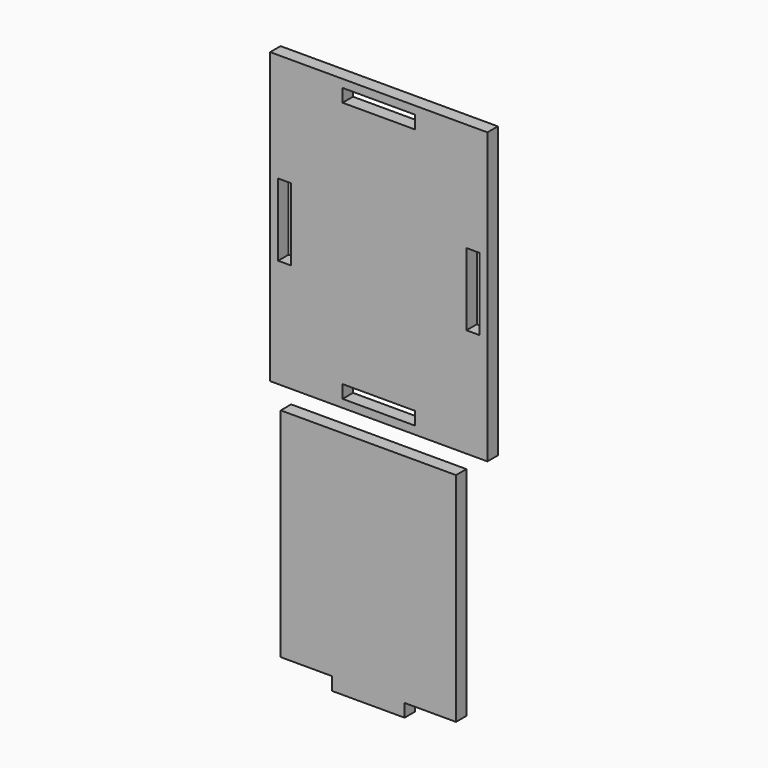
from build123d import *

# Parameters (mm, degrees)
F0_W     = 300
F0_H     = 400
F1_DEPTH = 18
F2_W     = 100
F2_H     = 9
F2_W_2   = 9
F2_H_2   = 100
F3_DEPTH = 25
F5_DEPTH = 18


with BuildPart() as f1:
    # F0 (on Front) → F1 (new body)
    with BuildSketch(Plane.XZ):
        Rectangle(F0_W, F0_H)
    extrude(amount=F1_DEPTH)

    # F2 (on face) → F3 (cut)
    with BuildSketch(Plane.XZ.offset(18)):
        with Locations((0, -184.5)):
            Rectangle(F2_W, F2_H)
        with Locations((0, -175.5)):
            Rectangle(F2_W, F2_H)
        with Locations((0, 175.5)):
            Rectangle(F2_W, F2_H)
        with Locations((0, 184.5)):
            Rectangle(F2_W, F2_H)
        with Locations((125.5, 0)):
            Rectangle(F2_W_2, F2_H_2)
        with Locations((134.5, 0)):
            Rectangle(F2_W_2, F2_H_2)
        with Locations((-134.5, 0)):
            Rectangle(F2_W_2, F2_H_2)
        with Locations((-125.5, 0)):
            Rectangle(F2_W_2, F2_H_2)
    extrude(amount=-F3_DEPTH, mode=Mode.SUBTRACT)


with BuildPart() as f5:
    # F4 (on face) → F5 (new body)
    with BuildSketch(Plane.XZ.offset(18)):
        Polygon((121, -218.728602), (-121, -218.728602), (-121, -518.728602), (-50, -518.728602), (-50, -536.728602), (50, -536.728602), (50, -518.728602), (121, -518.728602), align=None)
    extrude(amount=F5_DEPTH)


solid = Compound([f1.part, f5.part])
